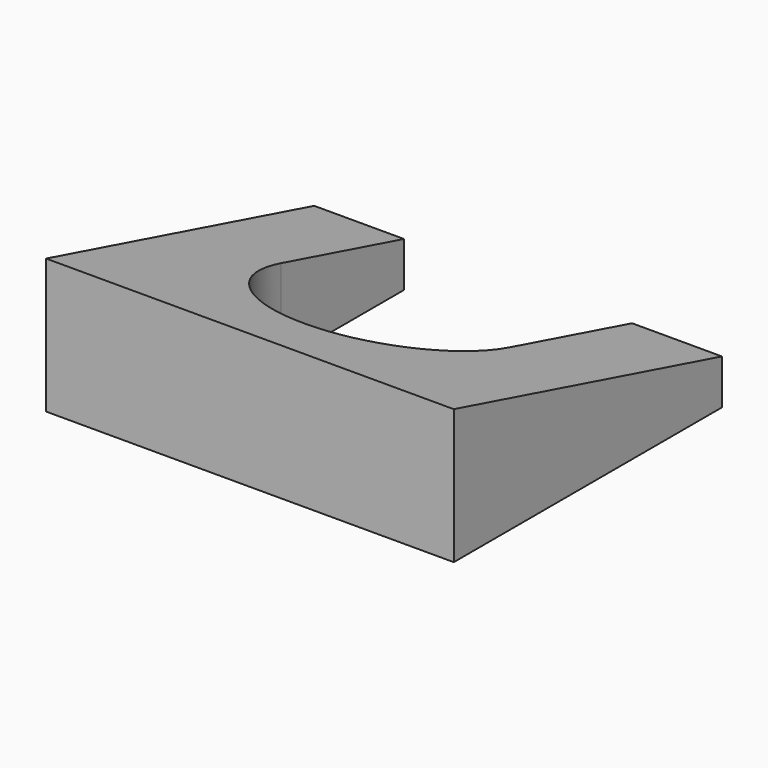
from build123d import *

# Parameters (mm, degrees)
F1_DEPTH = 57.658
F3_DEPTH = 19.051


with BuildPart() as f1:
    # F0 (on Right) → F1 (new body)
    with BuildSketch(Plane.YZ):
        Polygon((-47.397045, 0), (0, 0), (0, 6.35), (-47.397045, 19.05), align=None)
    extrude(amount=F1_DEPTH)

    # F2 (on face) → F3 (cut, through all)
    with BuildSketch(Plane(origin=(0, 0, 0), x_dir=(1, 0, 0), z_dir=(0, 0, -1))):
        with BuildLine():
            Line((12.7, 21.7424), (12.7, 0))
            Line((12.7, 0), (44.958, 0))
            Line((44.958, 0), (44.958, 21.7424))
            ThreePointArc((44.958, 21.7424), (28.829, 37.8714), (12.7, 21.7424))
        make_face()
    extrude(amount=-F3_DEPTH, mode=Mode.SUBTRACT)


solid = f1.part
